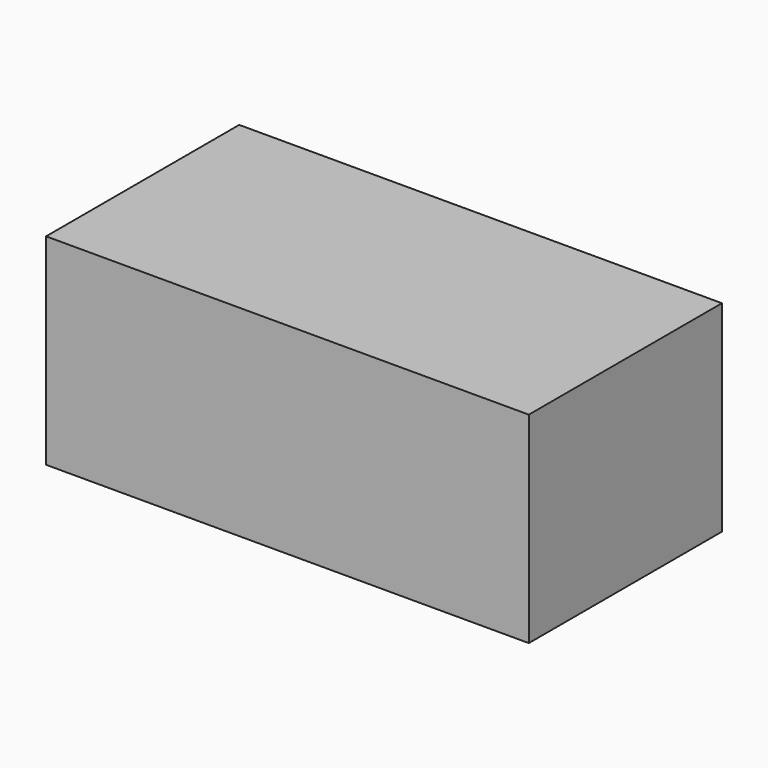
from build123d import *

# Parameters (mm, degrees)
SKETCH_W      = 120
SKETCH_H      = 60
EXTRUDE_DEPTH = 50


with BuildPart() as part:
    # Sketch → Extrude (new body)
    with BuildSketch(Plane.XY):
        Rectangle(SKETCH_W, SKETCH_H)
    extrude(amount=EXTRUDE_DEPTH)


solid = part.part
